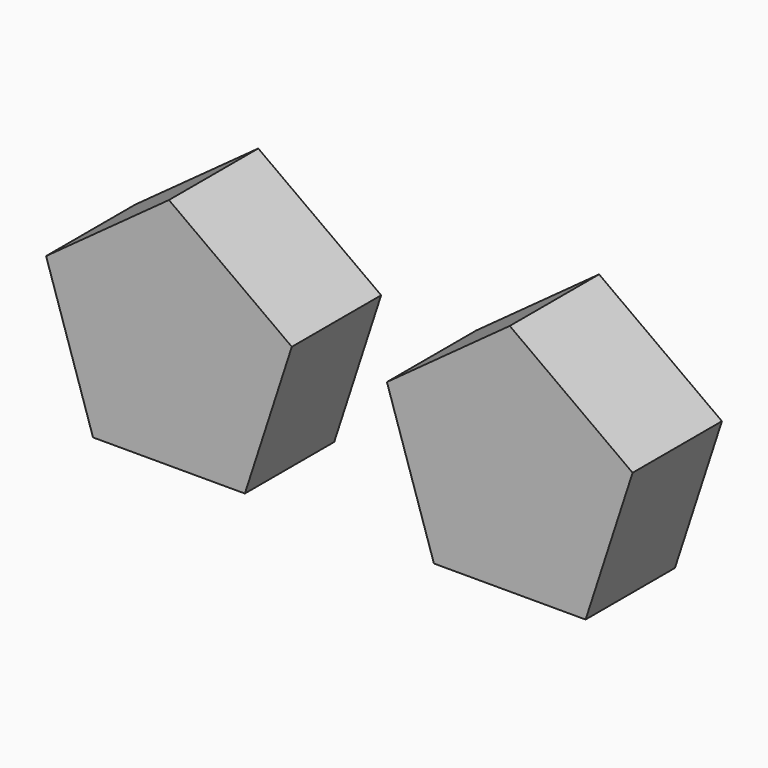
from build123d import *

# Parameters (mm, degrees)
F1_DEPTH = 25


with BuildPart() as f1:
    # F0 (on Front) → F1 (new body)
    with BuildSketch(Plane.XZ):
        Polygon((-33.7970565723, -4.4396347863), (-27.303634381, -24.4243333643), (-16.7970565723, 7.9115881898), align=None)
        Polygon((-61.303634381, -24.4243333643), (-27.303634381, -24.4243333643), (-44.303634381, -12.0731103882), align=None)
        Polygon((-44.303634381, -12.0731103882), (-27.303634381, -24.4243333643), (-33.7970565723, -4.4396347863), align=None)
        Polygon((-71.8102121898, 7.9115881898), (-61.303634381, -24.4243333643), (-54.8102121898, -4.4396347863), align=None)
        Polygon((-54.8102121898, -4.4396347863), (-61.303634381, -24.4243333643), (-44.303634381, -12.0731103882), align=None)
        Polygon((-37.8102121898, 7.9115881898), (-16.7970565723, 7.9115881898), (-44.303634381, 27.8962867677), align=None)
        Polygon((-33.7970565723, -4.4396347863), (-16.7970565723, 7.9115881898), (-37.8102121898, 7.9115881898), align=None)
        Polygon((-44.303634381, 27.8962867677), (-71.8102121898, 7.9115881898), (-50.7970565723, 7.9115881898), align=None)
        Polygon((-50.7970565723, 7.9115881898), (-71.8102121898, 7.9115881898), (-54.8102121898, -4.4396347863), align=None)
        Polygon((-37.8102121898, 7.9115881898), (-44.303634381, 27.8962867677), (-50.7970565723, 7.9115881898), align=None)
        Polygon((-54.8102121898, -4.4396347863), (-44.303634381, -12.0731103882), (-33.7970565723, -4.4396347863), (-37.8102121898, 7.9115881898), (-50.7970565723, 7.9115881898), align=None)
    extrude(amount=F1_DEPTH)


with BuildPart() as f1b:
    # F0 (on Front) → F1, piece 2 (new body)
    with BuildSketch(Plane.XZ):
        Polygon((31.9968238473, 7.8962867677), (31.9968238473, 27.8962867677), (4.4968238473, 7.8962867677), align=None)
        Polygon((59.4968238473, 7.8962867677), (31.9968238473, 27.8962867677), (31.9968238473, 7.8962867677), align=None)
        Polygon((31.9968238473, 7.8962867677), (4.4968238473, 7.8962867677), (15.0163392106, -24.4531566044), (31.9968238473, -12.1037132323), align=None)
        Polygon((31.9968238473, -12.1037132323), (59.4968238473, 7.8962867677), (31.9968238473, 7.8962867677), align=None)
        Polygon((48.977308484, -24.4531566044), (59.4968238473, 7.8962867677), (31.9968238473, -12.1037132323), (31.9968238473, -24.4531566044), align=None)
        Polygon((31.9968238473, -12.1037132323), (15.0163392106, -24.4531566044), (31.9968238473, -24.4531566044), align=None)
    extrude(amount=F1_DEPTH)


solid = Compound([f1.part, f1b.part])
